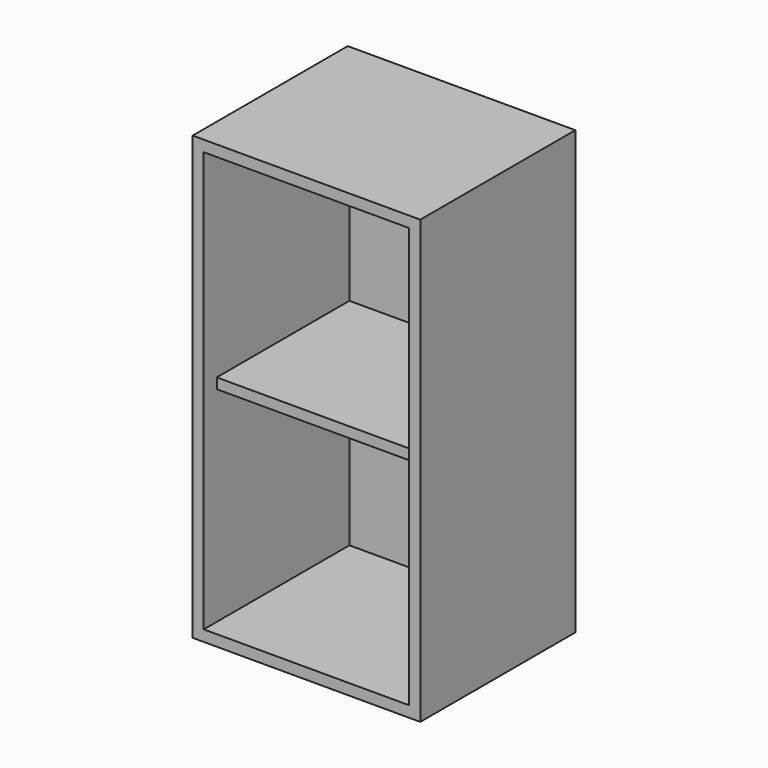
from build123d import *

# Parameters (mm, degrees)
F0_W          = 316
F0_H          = 16
F1_DEPTH      = 280
F1_DEPTH_BACK = 18
F2_W          = 316
F2_H          = 25
F3_DEPTH      = 16
F4_W          = 316
F4_H          = 18
F5_DEPTH      = 16
F6_W          = 326
F6_H          = 656
F7_DEPTH      = 3
F8_W          = 326
F8_H          = 656
F9_DEPTH      = 3


with BuildPart() as f1:
    # F0 (on Front) → F1 (new body, two sides)
    with BuildSketch(Plane.XZ) as f1_sk:
        Polygon((0, 340), (-175, 340), (-158, 323), (0, 323), (158, 323), (175, 340), align=None)
        Polygon((-158, -323), (-175, -340), (0, -340), (175, -340), (158, -323), (0, -323), align=None)
        Polygon((-158, 323), (-175, 340), (-175, -340), (-158, -323), (-158, -8), (-158, 8), align=None)
        Polygon((175, -340), (175, 340), (158, 323), (158, 8), (158, -8), (158, -323), align=None)
        Rectangle(F0_W, F0_H)
    extrude(amount=F1_DEPTH)
    extrude(f1_sk.sketch, amount=-F1_DEPTH_BACK)

    # F2 (on face) → F3 (cut)
    with BuildSketch(Plane.XY.offset(8)):
        with Locations((0, -267.5)):
            Rectangle(F2_W, F2_H)
    extrude(amount=-F3_DEPTH, mode=Mode.SUBTRACT)

    # F4 (on face) → F5 (cut)
    with BuildSketch(Plane(origin=(0, 0, -8), x_dir=(1, 0, 0), z_dir=(0, 0, -1))):
        with Locations((0, -9)):
            Rectangle(F4_W, F4_H)
    extrude(amount=-F5_DEPTH, mode=Mode.SUBTRACT)

    # F6 (on Front) → F7 (cut)
    with BuildSketch(Plane.XZ):
        Rectangle(F6_W, F6_H)
    extrude(amount=-F7_DEPTH, mode=Mode.SUBTRACT)

    # F8 (on Front) → F9 (join)
    with BuildSketch(Plane.XZ):
        with Locations((0.202316, -2.805007)):
            Rectangle(F8_W, F8_H)
    extrude(amount=-F9_DEPTH)


solid = f1.part
